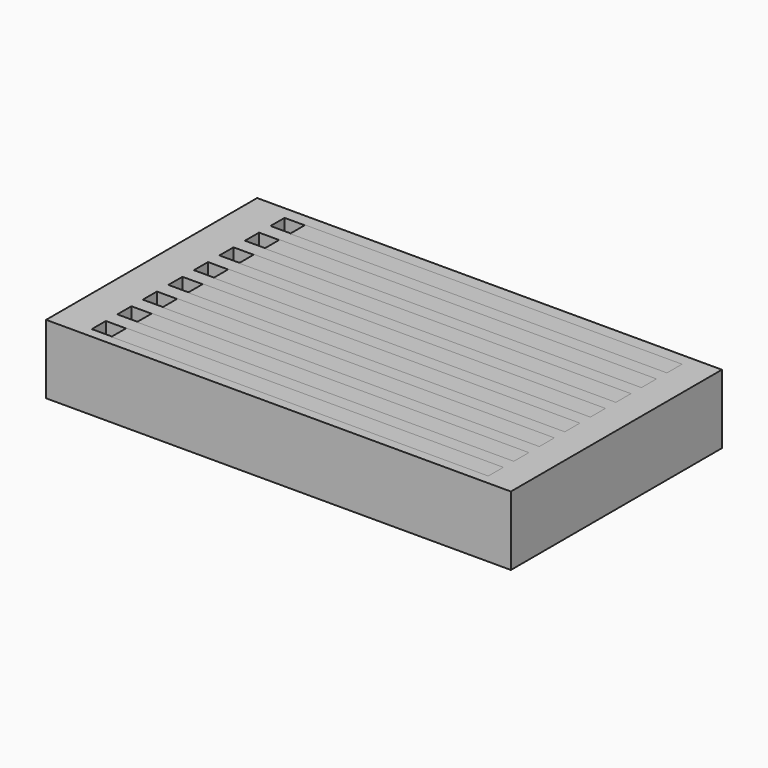
from build123d import *

# Parameters (mm, degrees)
BOX010_W     = 30
BOX010_H     = 1.5
BOX010_DEPTH = 5.5
BOX011_W     = 30
BOX011_H     = 1.5
BOX011_DEPTH = 5.5
BOX012_W     = 30
BOX012_H     = 1.5
BOX012_DEPTH = 5.5
BOX013_W     = 30
BOX013_H     = 1.5
BOX013_DEPTH = 5.5
BOX014_W     = 30
BOX014_H     = 1.5
BOX014_DEPTH = 5.5
BOX015_W     = 30
BOX015_H     = 1.5
BOX015_DEPTH = 5.5
BOX016_W     = 30
BOX016_H     = 1.5
BOX016_DEPTH = 5.5
BOX009_W     = 30
BOX009_H     = 1.5
BOX009_DEPTH = 5.5
BOX018_W     = 30
BOX018_H     = 1.5
BOX018_DEPTH = 5.5
BOX019_W     = 30
BOX019_H     = 1.5
BOX019_DEPTH = 5.5
BOX020_W     = 30
BOX020_H     = 1.5
BOX020_DEPTH = 5.5
BOX021_W     = 30
BOX021_H     = 1.5
BOX021_DEPTH = 5.5
BOX022_W     = 30
BOX022_H     = 1.5
BOX022_DEPTH = 5.5
BOX023_W     = 30
BOX023_H     = 1.5
BOX023_DEPTH = 5.5
BOX024_W     = 30
BOX024_H     = 1.5
BOX024_DEPTH = 5.5
BOX017_W     = 30
BOX017_H     = 1.5
BOX017_DEPTH = 5.5
BOX002_W     = 1.6
BOX002_H     = 1.4
BOX002_DEPTH = 10
BOX003_W     = 1.6
BOX003_H     = 1.4
BOX003_DEPTH = 10
BOX004_W     = 1.6
BOX004_H     = 1.4
BOX004_DEPTH = 10
BOX005_W     = 1.6
BOX005_H     = 1.4
BOX005_DEPTH = 10
BOX006_W     = 1.6
BOX006_H     = 1.4
BOX006_DEPTH = 10
BOX007_W     = 1.6
BOX007_H     = 1.4
BOX007_DEPTH = 10
BOX008_W     = 1.6
BOX008_H     = 1.4
BOX008_DEPTH = 10
BOX001_W     = 1.6
BOX001_H     = 1.4
BOX001_DEPTH = 10
BOX_W        = 37
BOX_H        = 21
BOX_DEPTH    = 5.5


with BuildPart() as cube010:
    # Box010 → Box010 (new body)
    with BuildSketch(Plane(origin=(4.6, 3.29, 0), x_dir=(1, 0, 0), z_dir=(0, 0, 1))):
        with Locations((15, 0.75)):
            Rectangle(BOX010_W, BOX010_H)
    extrude(amount=BOX010_DEPTH)


with BuildPart() as cube011:
    # Box011 → Box011 (new body)
    with BuildSketch(Plane(origin=(4.6, 5.83, 0), x_dir=(1, 0, 0), z_dir=(0, 0, 1))):
        with Locations((15, 0.75)):
            Rectangle(BOX011_W, BOX011_H)
    extrude(amount=BOX011_DEPTH)


with BuildPart() as cube012:
    # Box012 → Box012 (new body)
    with BuildSketch(Plane(origin=(4.6, 8.37, 0), x_dir=(1, 0, 0), z_dir=(0, 0, 1))):
        with Locations((15, 0.75)):
            Rectangle(BOX012_W, BOX012_H)
    extrude(amount=BOX012_DEPTH)


with BuildPart() as cube013:
    # Box013 → Box013 (new body)
    with BuildSketch(Plane(origin=(4.6, 10.91, 0), x_dir=(1, 0, 0), z_dir=(0, 0, 1))):
        with Locations((15, 0.75)):
            Rectangle(BOX013_W, BOX013_H)
    extrude(amount=BOX013_DEPTH)


with BuildPart() as cube014:
    # Box014 → Box014 (new body)
    with BuildSketch(Plane(origin=(4.6, 13.45, 0), x_dir=(1, 0, 0), z_dir=(0, 0, 1))):
        with Locations((15, 0.75)):
            Rectangle(BOX014_W, BOX014_H)
    extrude(amount=BOX014_DEPTH)


with BuildPart() as cube015:
    # Box015 → Box015 (new body)
    with BuildSketch(Plane(origin=(4.6, 15.99, 0), x_dir=(1, 0, 0), z_dir=(0, 0, 1))):
        with Locations((15, 0.75)):
            Rectangle(BOX015_W, BOX015_H)
    extrude(amount=BOX015_DEPTH)


with BuildPart() as cube016:
    # Box016 → Box016 (new body)
    with BuildSketch(Plane(origin=(4.6, 18.53, 0), x_dir=(1, 0, 0), z_dir=(0, 0, 1))):
        with Locations((15, 0.75)):
            Rectangle(BOX016_W, BOX016_H)
    extrude(amount=BOX016_DEPTH)


with BuildPart() as conducting_filament:
    # Box009 → Box009 (new body)
    with BuildSketch(Plane(origin=(4.6, 0.75, 0), x_dir=(1, 0, 0), z_dir=(0, 0, 1))):
        with Locations((15, 0.75)):
            Rectangle(BOX009_W, BOX009_H)
    extrude(amount=BOX009_DEPTH)

    # Fusion: union Cube010, Cube011, Cube012, Cube013, Cube014, Cube015, Cube016
    add(cube010.part)
    add(cube011.part)
    add(cube012.part)
    add(cube013.part)
    add(cube014.part)
    add(cube015.part)
    add(cube016.part)


with BuildPart() as cube018:
    # Box018 → Box018 (new body)
    with BuildSketch(Plane(origin=(4.6, 10.91, 0), x_dir=(1, 0, 0), z_dir=(0, 0, 1))):
        with Locations((15, 0.75)):
            Rectangle(BOX018_W, BOX018_H)
    extrude(amount=BOX018_DEPTH)


with BuildPart() as cube019:
    # Box019 → Box019 (new body)
    with BuildSketch(Plane(origin=(4.6, 3.29, 0), x_dir=(1, 0, 0), z_dir=(0, 0, 1))):
        with Locations((15, 0.75)):
            Rectangle(BOX019_W, BOX019_H)
    extrude(amount=BOX019_DEPTH)


with BuildPart() as cube020:
    # Box020 → Box020 (new body)
    with BuildSketch(Plane(origin=(4.6, 5.83, 0), x_dir=(1, 0, 0), z_dir=(0, 0, 1))):
        with Locations((15, 0.75)):
            Rectangle(BOX020_W, BOX020_H)
    extrude(amount=BOX020_DEPTH)


with BuildPart() as cube021:
    # Box021 → Box021 (new body)
    with BuildSketch(Plane(origin=(4.6, 18.53, 0), x_dir=(1, 0, 0), z_dir=(0, 0, 1))):
        with Locations((15, 0.75)):
            Rectangle(BOX021_W, BOX021_H)
    extrude(amount=BOX021_DEPTH)


with BuildPart() as cube022:
    # Box022 → Box022 (new body)
    with BuildSketch(Plane(origin=(4.6, 15.99, 0), x_dir=(1, 0, 0), z_dir=(0, 0, 1))):
        with Locations((15, 0.75)):
            Rectangle(BOX022_W, BOX022_H)
    extrude(amount=BOX022_DEPTH)


with BuildPart() as cube023:
    # Box023 → Box023 (new body)
    with BuildSketch(Plane(origin=(4.6, 8.37, 0), x_dir=(1, 0, 0), z_dir=(0, 0, 1))):
        with Locations((15, 0.75)):
            Rectangle(BOX023_W, BOX023_H)
    extrude(amount=BOX023_DEPTH)


with BuildPart() as cube024:
    # Box024 → Box024 (new body)
    with BuildSketch(Plane(origin=(4.6, 13.45, 0), x_dir=(1, 0, 0), z_dir=(0, 0, 1))):
        with Locations((15, 0.75)):
            Rectangle(BOX024_W, BOX024_H)
    extrude(amount=BOX024_DEPTH)


with BuildPart() as fusion002:
    # Box017 → Box017 (new body)
    with BuildSketch(Plane(origin=(4.6, 0.75, 0), x_dir=(1, 0, 0), z_dir=(0, 0, 1))):
        with Locations((15, 0.75)):
            Rectangle(BOX017_W, BOX017_H)
    extrude(amount=BOX017_DEPTH)

    # Fusion002: union Cube018, Cube019, Cube020, Cube021, Cube022, Cube023, Cube024
    add(cube018.part)
    add(cube019.part)
    add(cube020.part)
    add(cube021.part)
    add(cube022.part)
    add(cube023.part)
    add(cube024.part)


with BuildPart() as cube002:
    # Box002 → Box002 (new body)
    with BuildSketch(Plane(origin=(3, 3.34, -3), x_dir=(1, 0, 0), z_dir=(0, 0, 1))):
        with Locations((0.8, 0.7)):
            Rectangle(BOX002_W, BOX002_H)
    extrude(amount=BOX002_DEPTH)


with BuildPart() as cube003:
    # Box003 → Box003 (new body)
    with BuildSketch(Plane(origin=(3, 5.88, -3), x_dir=(1, 0, 0), z_dir=(0, 0, 1))):
        with Locations((0.8, 0.7)):
            Rectangle(BOX003_W, BOX003_H)
    extrude(amount=BOX003_DEPTH)


with BuildPart() as cube004:
    # Box004 → Box004 (new body)
    with BuildSketch(Plane(origin=(3, 8.42, -3), x_dir=(1, 0, 0), z_dir=(0, 0, 1))):
        with Locations((0.8, 0.7)):
            Rectangle(BOX004_W, BOX004_H)
    extrude(amount=BOX004_DEPTH)


with BuildPart() as cube005:
    # Box005 → Box005 (new body)
    with BuildSketch(Plane(origin=(3, 10.96, -3), x_dir=(1, 0, 0), z_dir=(0, 0, 1))):
        with Locations((0.8, 0.7)):
            Rectangle(BOX005_W, BOX005_H)
    extrude(amount=BOX005_DEPTH)


with BuildPart() as cube006:
    # Box006 → Box006 (new body)
    with BuildSketch(Plane(origin=(3, 13.5, -3), x_dir=(1, 0, 0), z_dir=(0, 0, 1))):
        with Locations((0.8, 0.7)):
            Rectangle(BOX006_W, BOX006_H)
    extrude(amount=BOX006_DEPTH)


with BuildPart() as cube007:
    # Box007 → Box007 (new body)
    with BuildSketch(Plane(origin=(3, 16.04, -3), x_dir=(1, 0, 0), z_dir=(0, 0, 1))):
        with Locations((0.8, 0.7)):
            Rectangle(BOX007_W, BOX007_H)
    extrude(amount=BOX007_DEPTH)


with BuildPart() as cube008:
    # Box008 → Box008 (new body)
    with BuildSketch(Plane(origin=(3, 18.58, -3), x_dir=(1, 0, 0), z_dir=(0, 0, 1))):
        with Locations((0.8, 0.7)):
            Rectangle(BOX008_W, BOX008_H)
    extrude(amount=BOX008_DEPTH)


with BuildPart() as fusion001:
    # Box001 → Box001 (new body)
    with BuildSketch(Plane(origin=(3, 0.8, -3), x_dir=(1, 0, 0), z_dir=(0, 0, 1))):
        with Locations((0.8, 0.7)):
            Rectangle(BOX001_W, BOX001_H)
    extrude(amount=BOX001_DEPTH)

    # Fusion001: union Cube002, Cube003, Cube004, Cube005, Cube006, Cube007, Cube008
    add(cube002.part)
    add(cube003.part)
    add(cube004.part)
    add(cube005.part)
    add(cube006.part)
    add(cube007.part)
    add(cube008.part)


with BuildPart() as main_body:
    # Box → Box (new body)
    with BuildSketch(Plane.XY):
        with Locations((18.5, 10.5)):
            Rectangle(BOX_W, BOX_H)
    extrude(amount=BOX_DEPTH)

    # Cut: cut Fusion001
    add(fusion001.part, mode=Mode.SUBTRACT)

    # Cut001: cut Fusion002
    add(fusion002.part, mode=Mode.SUBTRACT)


solid = Compound([conducting_filament.part, main_body.part])
